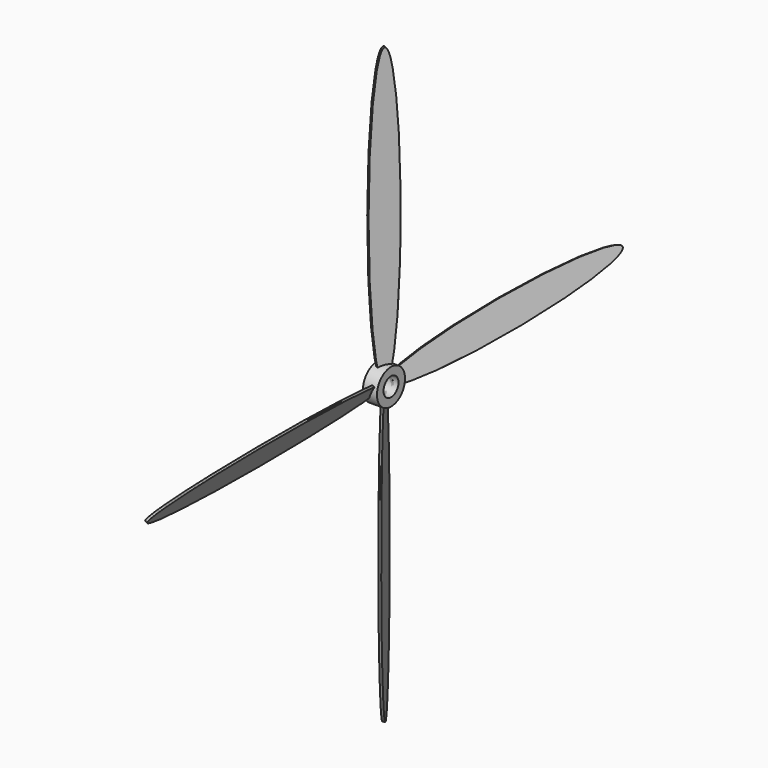
from build123d import *

# Parameters (mm, degrees)
F3_DEPTH = 0.5
F5_R     = 4
F6_DEPTH = 25
F5_R_2   = 7.5
F8_DEPTH = 3
F9_COUNT = 4


with BuildPart() as f3:
    # F2 (on line) → F3 (new body, symmetric)
    with BuildSketch(Plane(origin=(0, 0, 0), x_dir=(0, -1, 0), z_dir=(-0.906307787, 0, 0.4226182617))):
        with BuildLine():
            add(Edge.make_bspline(
                [(127, 0), (127, 10.3923048454), (31.75, 5.1961524227), (-63.5, 0), (31.75, -5.1961524227), (127, -10.3923048454), (127, 0)],
                knots=[0, 0, 0, 2.0943951024, 2.0943951024, 4.1887902048, 4.1887902048, 6.2831853072, 6.2831853072, 6.2831853072], degree=2, weights=[1, 0.5, 1, 0.5, 1, 0.5, 1]))
        make_face()
    extrude(amount=F3_DEPTH, both=True)


with BuildPart() as f6:
    # F5 (on Right) → F6 (new body, symmetric)
    with BuildSketch(Plane.YZ):
        Circle(F5_R)
    extrude(amount=F6_DEPTH, both=True)


with BuildPart() as f3_1:
    add(f3.part)

    # F7: cut F6
    add(f6.part, mode=Mode.SUBTRACT)


with BuildPart() as f8:
    # F5 (on Right) → F8 (new body, symmetric)
    with BuildSketch(Plane.YZ):
        Circle(F5_R_2)
        Circle(F5_R, mode=Mode.SUBTRACT)
    extrude(amount=F8_DEPTH, both=True)


with BuildPart() as f9_1:
    # F9: instance of F3
    add(f3_1.part.rotate(Axis((1.1448301375, 0, 0), (1, 0, 0)), 1 * 360 / F9_COUNT))


with BuildPart() as f9_2:
    # F9: instance of F3
    add(f3_1.part.rotate(Axis((1.1448301375, 0, 0), (1, 0, 0)), 2 * 360 / F9_COUNT))


with BuildPart() as f9_3:
    # F9: instance of F3
    add(f3_1.part.rotate(Axis((1.1448301375, 0, 0), (1, 0, 0)), 3 * 360 / F9_COUNT))


solid = Compound([f3_1.part, f8.part, f9_1.part, f9_2.part, f9_3.part])
